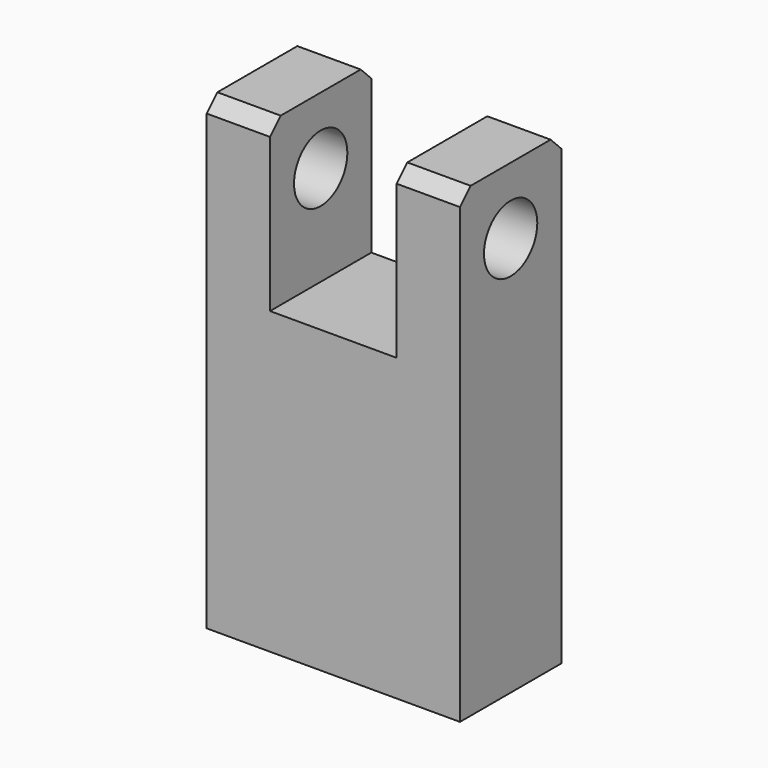
from build123d import *

# Parameters (mm, degrees)
F0_W     = 38
F0_H     = 70
F1_DEPTH = 9.5
F2_W     = 19
F2_H     = 25
F3_DEPTH = 19
F4_R     = 5
F5_DEPTH = 38
F6_SIZE  = 2
F8_D     = 8.5
F8_DEPTH = 19.5
F8_TIP   = 2.5536576309


with BuildPart() as f1:
    # F0 (on Front) → F1 (new body, symmetric)
    with BuildSketch(Plane.XZ):
        Rectangle(F0_W, F0_H)
    extrude(amount=F1_DEPTH, both=True)

    # F2 (on face) → F3 (cut)
    with BuildSketch(Plane.XZ.offset(9.5)):
        with Locations((0, 22.5)):
            Rectangle(F2_W, F2_H)
    extrude(amount=-F3_DEPTH, mode=Mode.SUBTRACT)

    # F4 (on face) → F5 (cut)
    with BuildSketch(Plane.YZ.offset(19)):
        with Locations((0, 25)):
            Circle(F4_R)
    extrude(amount=-F5_DEPTH, mode=Mode.SUBTRACT)

    # F6
    f6_edges = [f1.edges().sort_by_distance(p)[0] for p in [
        (14.25, 9.5, 35),
        (-14.25, 9.5, 35),
        (-14.25, -9.5, 35),
        (14.25, -9.5, 35),
    ]]
    chamfer(f6_edges, length=F6_SIZE)

    # F8
    with Locations(Plane(origin=(0, 0, -35), x_dir=(1, 0, 0), z_dir=(0, 0, -1))):
        with Locations((-11.5, 0), (11.5, 0)):
            Hole(F8_D / 2, depth=F8_DEPTH)
            with Locations((0, 0, -(F8_DEPTH + F8_TIP / 2))):  # 118° drill point
                Cone(0, F8_D / 2, F8_TIP, mode=Mode.SUBTRACT)


solid = f1.part
